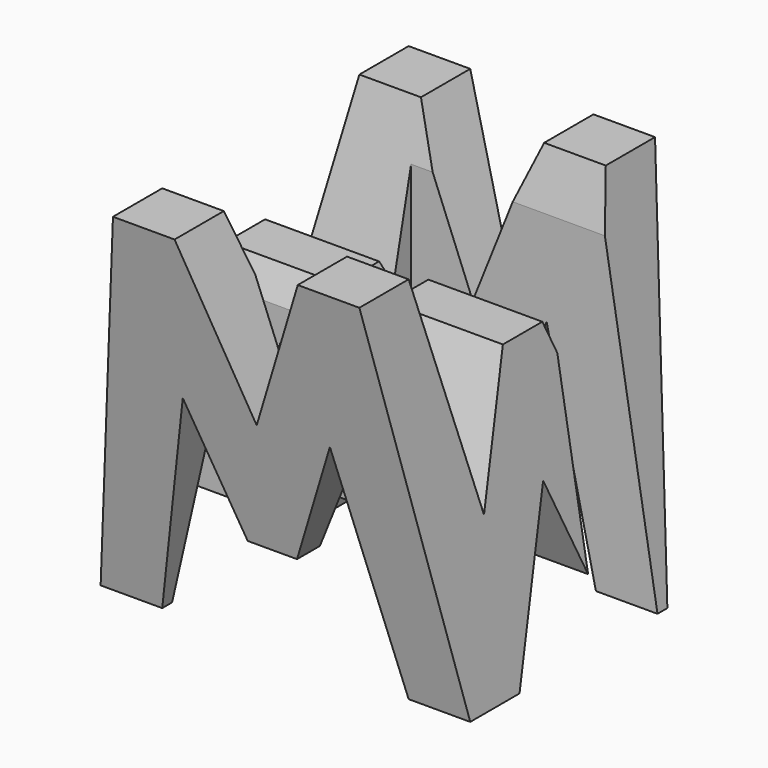
from build123d import *

# Parameters (mm, degrees)
F0_W     = 38.1
F0_H     = 38.1
F1_DEPTH = 38.1
F4_DEPTH = 38.1
F6_DEPTH = 38.1
F7_W     = 25.4
F7_H     = 7.62
F8_DEPTH = 38.1


with BuildPart() as f1:
    # F0 (on Front) → F1 (new body)
    with BuildSketch(Plane.XZ):
        with Locations((19.05, 19.05)):
            Rectangle(F0_W, F0_H)
    extrude(amount=F1_DEPTH)

    # F3 (on offset) → F4 (cut)
    with BuildSketch(Plane.YZ.offset(38.1)):
        Polygon((-6.35, 38.1), (-31.75, 38.1), (-26.67, 15.875), (-21.59, 28.575), (-16.51, 28.575), (-11.43, 15.875), align=None)
        Polygon((-19.05, 15.875), (-25.4, 0), (-12.7, 0), align=None)
        Polygon((0, 0), (0, 38.1), (-6.35, 0), align=None)
        Polygon((-31.75, 0), (-38.1, 38.1), (-38.1, 0), align=None)
    extrude(amount=-F4_DEPTH, mode=Mode.SUBTRACT)

    # F5 (on Front) → F6 (cut)
    with BuildSketch(Plane.XZ):
        Polygon((38.1, 0), (38.1, 38.1), (31.75, 38.1), align=None)
        Polygon((6.35, 0), (31.75, 0), (26.67, 22.782558), (21.59, 10.082558), (16.51, 10.082558), (11.43, 22.225), align=None)
        Polygon((19.05, 22.225), (25.4, 38.1), (12.7, 38.1), align=None)
        Polygon((0, 38.1), (0, 0), (6.35, 38.1), align=None)
    extrude(amount=F6_DEPTH, mode=Mode.SUBTRACT)

    # F7 (on Top) → F8 (cut)
    with BuildSketch(Plane.XY):
        with Locations((25.4, -11.43)):
            Rectangle(F7_W, F7_H)
        with Locations((12.7, -26.67)):
            Rectangle(F7_W, F7_H)
    extrude(amount=F8_DEPTH, mode=Mode.SUBTRACT)


solid = f1.part
